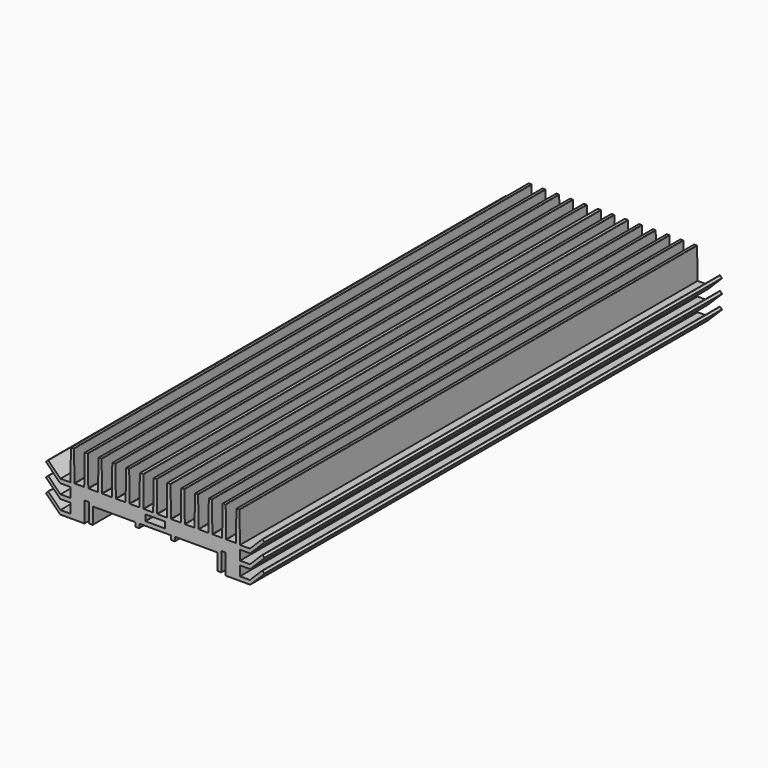
from build123d import *

# Parameters (mm, degrees)
F1_DEPTH = 280
F3_DEPTH = 280


with BuildPart() as f1:
    # F0 (on Front) → F1 (new body)
    with BuildSketch(Plane.XZ):
        with BuildLine():
            Line((-32.5, -2.395), (-32.5, -11.3))
            ThreePointArc((-32.5, -11.3), (-32.441421, -11.441421), (-32.3, -11.5))
            Line((-32.3, -11.5), (-30.700442, -11.5))
            ThreePointArc((-30.700442, -11.5), (-30.558865, -11.441265), (-30.500443, -11.299558))
            Line((-30.500443, -11.299558), (-30.517223, -3.700442))
            ThreePointArc((-30.517223, -3.700442), (-30.458801, -3.558735), (-30.317224, -3.5))
            Line((-30.317224, -3.5), (-9.95, -3.5))
            ThreePointArc((-9.95, -3.5), (-9.808579, -3.558579), (-9.75, -3.7))
            Line((-9.75, -3.7), (-9.75, -5.3))
            ThreePointArc((-9.75, -5.3), (-9.691421, -5.441421), (-9.55, -5.5))
            Line((-9.55, -5.5), (-7.95, -5.5))
            ThreePointArc((-7.95, -5.5), (-7.808579, -5.441421), (-7.75, -5.3))
            Line((-7.75, -5.3), (-7.75, -3.702103))
            ThreePointArc((-7.75, -3.702103), (-7.691421, -3.560682), (-7.55, -3.502103))
            Line((-7.55, -3.502103), (0, -3.502103))
            Line((0, -3.502103), (0, -1.502103))
            Line((0, -1.502103), (-4.654982, -1.502103))
            ThreePointArc((-4.654982, -1.502103), (-4.796403, -1.443525), (-4.854982, -1.302103))
            Line((-4.854982, -1.302103), (-4.854982, 1.297897))
            ThreePointArc((-4.854982, 1.297897), (-4.796403, 1.439318), (-4.654982, 1.497897))
            Line((-4.654982, 1.497897), (0, 1.497897))
            Line((0, 1.497897), (0, 18.497629))
            Line((0, 18.497629), (-0.55284, 18.497629))
            ThreePointArc((-0.55284, 18.497629), (-0.693076, 18.440226), (-0.752812, 18.300968))
            Line((-0.752812, 18.300968), (-0.996713, 3.694558))
            ThreePointArc((-0.996713, 3.694558), (-1.056449, 3.5553), (-1.196685, 3.497897))
            Line((-1.196685, 3.497897), (-5.550001, 3.497897))
            ThreePointArc((-5.550001, 3.497897), (-5.691423, 3.556475), (-5.750001, 3.697897))
            Line((-5.750001, 3.697897), (-5.750001, 18.3))
            ThreePointArc((-5.750001, 18.3), (-5.80858, 18.441421), (-5.950001, 18.5))
            Line((-5.950001, 18.5), (-7.302839, 18.5))
            ThreePointArc((-7.302839, 18.5), (-7.443074, 18.442597), (-7.502811, 18.303339))
            Line((-7.502811, 18.303339), (-7.746716, 3.696661))
            ThreePointArc((-7.746716, 3.696661), (-7.806452, 3.557403), (-7.946688, 3.5))
            Line((-7.946688, 3.5), (-12.303299, 3.5))
            ThreePointArc((-12.303299, 3.5), (-12.44354, 3.557407), (-12.503272, 3.696673))
            Line((-12.503272, 3.696673), (-12.746255, 18.303327))
            ThreePointArc((-12.746255, 18.303327), (-12.805987, 18.442593), (-12.946228, 18.5))
            Line((-12.946228, 18.5), (-14.052839, 18.5))
            ThreePointArc((-14.052839, 18.5), (-14.193074, 18.442597), (-14.252811, 18.303339))
            Line((-14.252811, 18.303339), (-14.496716, 3.696661))
            ThreePointArc((-14.496716, 3.696661), (-14.556452, 3.557403), (-14.696688, 3.5))
            Line((-14.696688, 3.5), (-19.053299, 3.5))
            ThreePointArc((-19.053299, 3.5), (-19.19354, 3.557407), (-19.253272, 3.696673))
            Line((-19.253272, 3.696673), (-19.496255, 18.303327))
            ThreePointArc((-19.496255, 18.303327), (-19.555987, 18.442593), (-19.696228, 18.5))
            Line((-19.696228, 18.5), (-20.802839, 18.5))
            ThreePointArc((-20.802839, 18.5), (-20.943074, 18.442597), (-21.002811, 18.303339))
            Line((-21.002811, 18.303339), (-21.246716, 3.696661))
            ThreePointArc((-21.246716, 3.696661), (-21.306452, 3.557403), (-21.446688, 3.5))
            Line((-21.446688, 3.5), (-25.803299, 3.5))
            ThreePointArc((-25.803299, 3.5), (-25.94354, 3.557407), (-26.003272, 3.696673))
            Line((-26.003272, 3.696673), (-26.246255, 18.303327))
            ThreePointArc((-26.246255, 18.303327), (-26.305987, 18.442593), (-26.446228, 18.5))
            Line((-26.446228, 18.5), (-27.552839, 18.5))
            ThreePointArc((-27.552839, 18.5), (-27.693074, 18.442597), (-27.752811, 18.303339))
            Line((-27.752811, 18.303339), (-27.996716, 3.696661))
            ThreePointArc((-27.996716, 3.696661), (-28.056452, 3.557403), (-28.196688, 3.5))
            Line((-28.196688, 3.5), (-32.553299, 3.5))
            ThreePointArc((-32.553299, 3.5), (-32.69354, 3.557407), (-32.753272, 3.696673))
            Line((-32.753272, 3.696673), (-32.996255, 18.303327))
            ThreePointArc((-32.996255, 18.303327), (-33.055987, 18.442593), (-33.196228, 18.5))
            Line((-33.196228, 18.5), (-34.302839, 18.5))
            ThreePointArc((-34.302839, 18.5), (-34.443074, 18.442597), (-34.502811, 18.303339))
            Line((-34.502811, 18.303339), (-34.746716, 3.696661))
            ThreePointArc((-34.746716, 3.696661), (-34.806452, 3.557403), (-34.946688, 3.5))
            Line((-34.946688, 3.5), (-39.303299, 3.5))
            ThreePointArc((-39.303299, 3.5), (-39.44354, 3.557407), (-39.503272, 3.696673))
            Line((-39.503272, 3.696673), (-39.746255, 18.303327))
            ThreePointArc((-39.746255, 18.303327), (-39.805987, 18.442593), (-39.946228, 18.5))
            Line((-39.946228, 18.5), (-41.052839, 18.5))
            ThreePointArc((-41.052839, 18.5), (-41.193074, 18.442597), (-41.252811, 18.303339))
            Line((-41.252811, 18.303339), (-41.5, 3.5))
            Line((-41.5, 3.5), (-41.5, -12.195))
            Line((-41.5, -12.195), (-34.7, -12.195))
            ThreePointArc((-34.7, -12.195), (-34.558579, -12.136421), (-34.5, -11.995))
            Line((-34.5, -11.995), (-34.5, -2.395))
            ThreePointArc((-34.5, -2.395), (-34.441421, -2.253579), (-34.3, -2.195))
            Line((-34.3, -2.195), (-32.7, -2.195))
            ThreePointArc((-32.7, -2.195), (-32.558579, -2.253579), (-32.5, -2.395))
        make_face()
    extrude(amount=F1_DEPTH)

    # F2 (on Front) → F3 (join)
    with BuildSketch(Plane.XZ):
        with BuildLine():
            Line((-46.417157, -12.194781), (-41.5, -12.194781))
            Line((-41.5, -12.194781), (-41.5, -10.194781))
            Line((-41.5, -10.194781), (-46.295837, -10.194781))
            ThreePointArc((-46.295837, -10.194781), (-46.372374, -10.179557), (-46.437258, -10.136203))
            Line((-46.437258, -10.136203), (-52.297918, -4.275542))
            ThreePointArc((-52.297918, -4.275542), (-52.43934, -4.216964), (-52.580761, -4.275542))
            Line((-52.580761, -4.275542), (-53.358579, -5.05336))
            ThreePointArc((-53.358579, -5.05336), (-53.417157, -5.194781), (-53.358579, -5.336203))
            Line((-53.358579, -5.336203), (-46.558579, -12.136203))
            ThreePointArc((-46.558579, -12.136203), (-46.493694, -12.179557), (-46.417157, -12.194781))
        make_face()
        with BuildLine():
            Line((-53.358579, 1.413797), (-46.558579, -5.386203))
            ThreePointArc((-46.558579, -5.386203), (-46.493694, -5.429557), (-46.417157, -5.444781))
            Line((-46.417157, -5.444781), (-41.5, -5.444781))
            Line((-41.5, -5.444781), (-41.5, -3.444781))
            Line((-41.5, -3.444781), (-46.295837, -3.444781))
            ThreePointArc((-46.295837, -3.444781), (-46.372374, -3.429557), (-46.437258, -3.386203))
            Line((-46.437258, -3.386203), (-52.297918, 2.474458))
            ThreePointArc((-52.297918, 2.474458), (-52.43934, 2.533036), (-52.580761, 2.474458))
            Line((-52.580761, 2.474458), (-53.358579, 1.69664))
            ThreePointArc((-53.358579, 1.69664), (-53.417157, 1.555219), (-53.358579, 1.413797))
        make_face()
        with BuildLine():
            Line((-53.358579, 8.163797), (-46.558579, 1.363797))
            ThreePointArc((-46.558579, 1.363797), (-46.493694, 1.320443), (-46.417157, 1.305219))
            Line((-46.417157, 1.305219), (-41.5, 1.305219))
            Line((-41.5, 1.305219), (-41.5, 3.305219))
            Line((-41.5, 3.305219), (-46.295837, 3.305219))
            ThreePointArc((-46.295837, 3.305219), (-46.372374, 3.320443), (-46.437258, 3.363797))
            Line((-46.437258, 3.363797), (-52.297918, 9.224458))
            ThreePointArc((-52.297918, 9.224458), (-52.43934, 9.283036), (-52.580761, 9.224458))
            Line((-52.580761, 9.224458), (-53.358579, 8.44664))
            ThreePointArc((-53.358579, 8.44664), (-53.417157, 8.305219), (-53.358579, 8.163797))
        make_face()
    extrude(amount=F3_DEPTH)

    # F4: F1 across face


with BuildPart() as f1_1:
    add(f1.part)
    add(f1.part.mirror(Plane(origin=(0, -140, 9.997763), x_dir=(0, 1, 0), z_dir=(1, 0, 0))))


solid = f1_1.part
